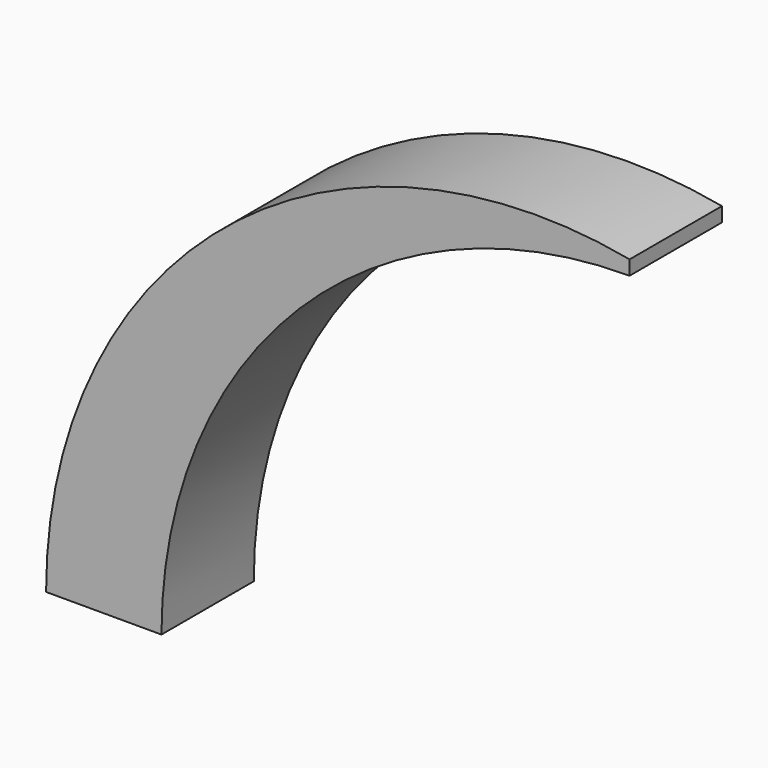
from build123d import *

# Parameters (mm, degrees)
F1_DEPTH      = 25.4
F1_DEPTH_BACK = 25.4


with BuildPart() as f1:
    # F0 (on Front) → F1 (new body, two sides)
    with BuildSketch(Plane.XZ) as f1_sk:
        with BuildLine():
            ThreePointArc((-206.121, 0), (-145.749557, 145.749557), (0, 206.121))
            Line((0, 206.121), (0, 212.471))
            ThreePointArc((0, 212.471), (-178.462008, 166.697575), (-256.921, 0))
            Line((-256.921, 0), (-250.571, 0))
            Line((-250.571, 0), (-206.121, 0))
        make_face()
    extrude(amount=F1_DEPTH)
    extrude(f1_sk.sketch, amount=-F1_DEPTH_BACK)


solid = f1.part
